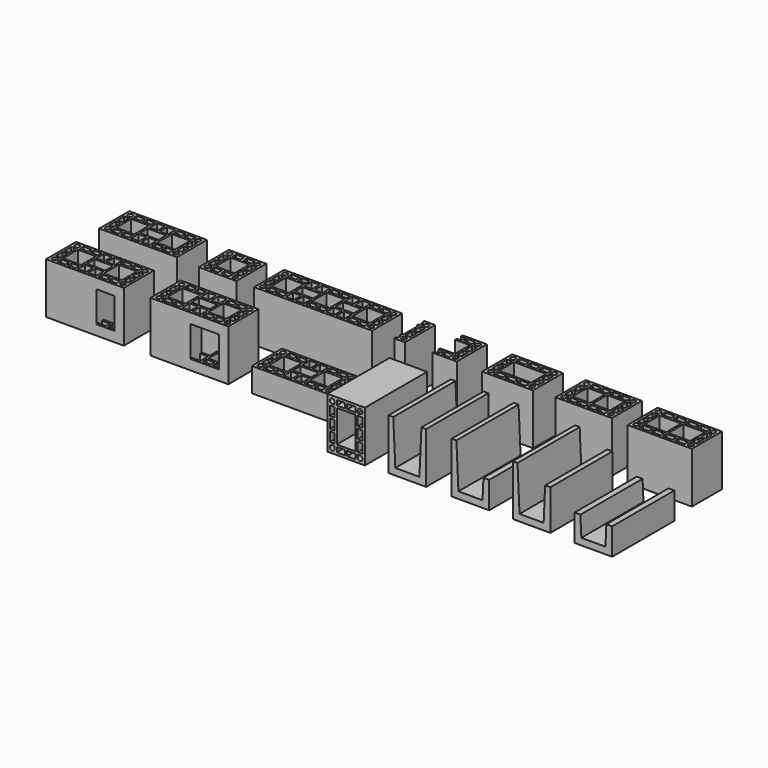
from build123d import *

# Parameters (mm, degrees)
F0_W     = 290
F0_H     = 140
F0_W_2   = 29.75
F0_H_2   = 18
F0_W_3   = 30.5
F0_H_3   = 35
F0_W_4   = 18
F0_H_4   = 31
F0_W_5   = 67.5
F0_H_5   = 70
F0_W_6   = 69
F0_H_6   = 36
F1_DEPTH = 190
F0_W_7   = 140
F0_W_8   = 70
F0_W_9   = 440
F0_W_10  = 29.58192
F0_W_11  = 30.32768
F0_W_12  = 30.32769
F0_W_13  = 17.89831
F0_W_14  = 67.11864
F0_W_15  = 68.61016
F0_W_16  = 68.61017
F0_W_17  = 190
F0_W_18  = 34.66666
F0_H_7   = 30
F0_W_19  = 120
F0_W_20  = 210
F0_W_21  = 66
F0_W_22  = 240
F0_W_23  = 36.5
F0_W_24  = 81
F2_W     = 290
F2_H     = 140
F2_W_2   = 29.75
F2_H_2   = 18
F2_W_3   = 30.5
F2_H_3   = 35
F2_W_4   = 18
F2_H_4   = 31
F2_W_5   = 67.5
F2_H_5   = 70
F2_W_6   = 69
F2_H_6   = 36
F3_DEPTH = 90
F6_W     = 67.5
F6_H     = 115
F6_W_2   = 106
F7_DEPTH = 88
F8_W     = 140
F8_H     = 190
F8_W_2   = 31
F8_H_2   = 18
F8_W_3   = 18
F8_H_3   = 34.66668
F8_W_4   = 70
F8_H_4   = 120
F9_DEPTH = 290


with BuildPart() as f1:
    # F0 (on Top) → F1 (new body)
    with BuildSketch(Plane.XY):
        with Locations((-979.6819496155, 103.0000017881)):
            Rectangle(F0_W, F0_H)
        with BuildLine():
            ThreePointArc((-1097.6819496155, 51.0000017881), (-1113.0459106462, 44.6360407575), (-1106.6819496155, 60.0000017881))
            Line((-1106.6819496155, 60.0000017881), (-1097.6819496155, 60.0000017881))
            Line((-1097.6819496155, 60.0000017881), (-1097.6819496155, 51.0000017881))
        make_face(mode=Mode.SUBTRACT)
        with Locations((-1074.8069496155, 51.0000017881)):
            Rectangle(F0_W_2, F0_H_2, mode=Mode.SUBTRACT)
        with Locations((-1037.0569496155, 51.0000017881)):
            Rectangle(F0_W_2, F0_H_2, mode=Mode.SUBTRACT)
        with Locations((-922.3069496155, 51.0000017881)):
            Rectangle(F0_W_2, F0_H_2, mode=Mode.SUBTRACT)
        with Locations((-884.5569496155, 51.0000017881)):
            Rectangle(F0_W_2, F0_H_2, mode=Mode.SUBTRACT)
        with BuildLine():
            ThreePointArc((-852.6819496155, 60.0000017881), (-846.3179885848, 44.6360407575), (-861.6819496155, 51.0000017881))
            Line((-861.6819496155, 51.0000017881), (-861.6819496155, 60.0000017881))
            Line((-861.6819496155, 60.0000017881), (-852.6819496155, 60.0000017881))
        make_face(mode=Mode.SUBTRACT)
        with Locations((-998.9319496155, 59.5000017881)):
            Rectangle(F0_W_3, F0_H_3, mode=Mode.SUBTRACT)
        with Locations((-960.4319496155, 59.5000017881)):
            Rectangle(F0_W_3, F0_H_3, mode=Mode.SUBTRACT)
        with Locations((-1106.6819496155, 83.5000017881)):
            Rectangle(F0_W_4, F0_H_4, mode=Mode.SUBTRACT)
        with Locations((-852.6819496155, 83.5000017881)):
            Rectangle(F0_W_4, F0_H_4, mode=Mode.SUBTRACT)
        with Locations((-1055.9319496155, 103.0000017881)):
            Rectangle(F0_W_5, F0_H_5, mode=Mode.SUBTRACT)
        with Locations((-979.6819496155, 103.0000017881)):
            Rectangle(F0_W_6, F0_H_6, mode=Mode.SUBTRACT)
        with Locations((-903.4319496155, 103.0000017881)):
            Rectangle(F0_W_5, F0_H_5, mode=Mode.SUBTRACT)
        with Locations((-1106.6819496155, 122.5000017881)):
            Rectangle(F0_W_4, F0_H_4, mode=Mode.SUBTRACT)
        with Locations((-852.6819496155, 122.5000017881)):
            Rectangle(F0_W_4, F0_H_4, mode=Mode.SUBTRACT)
        with Locations((-998.9319496155, 146.5000017881)):
            Rectangle(F0_W_3, F0_H_3, mode=Mode.SUBTRACT)
        with Locations((-960.4319496155, 146.5000017881)):
            Rectangle(F0_W_3, F0_H_3, mode=Mode.SUBTRACT)
        with BuildLine():
            ThreePointArc((-1106.6819496155, 146.0000017881), (-1113.0459106462, 161.3639628188), (-1097.6819496155, 155.0000017881))
            Line((-1097.6819496155, 155.0000017881), (-1097.6819496155, 146.0000017881))
            Line((-1097.6819496155, 146.0000017881), (-1106.6819496155, 146.0000017881))
        make_face(mode=Mode.SUBTRACT)
        with Locations((-1074.8069496155, 155.0000017881)):
            Rectangle(F0_W_2, F0_H_2, mode=Mode.SUBTRACT)
        with Locations((-1037.0569496155, 155.0000017881)):
            Rectangle(F0_W_2, F0_H_2, mode=Mode.SUBTRACT)
        with Locations((-922.3069496155, 155.0000017881)):
            Rectangle(F0_W_2, F0_H_2, mode=Mode.SUBTRACT)
        with Locations((-884.5569496155, 155.0000017881)):
            Rectangle(F0_W_2, F0_H_2, mode=Mode.SUBTRACT)
        with BuildLine():
            ThreePointArc((-861.6819496155, 155.0000017881), (-846.3179885848, 161.3639628188), (-852.6819496155, 146.0000017881))
            Line((-852.6819496155, 146.0000017881), (-861.6819496155, 146.0000017881))
            Line((-861.6819496155, 146.0000017881), (-861.6819496155, 155.0000017881))
        make_face(mode=Mode.SUBTRACT)
    extrude(amount=F1_DEPTH)


with BuildPart() as f1b:
    # F0 (on Top) → F1, piece 2 (new body)
    with BuildSketch(Plane.XY):
        with Locations((-675.6081996155, 93.5069517881)):
            Rectangle(F0_W_7, F0_H)
        with BuildLine():
            ThreePointArc((-718.6081996155, 41.5069517881), (-733.9721606462, 35.1429907575), (-727.6081996155, 50.5069517881))
            Line((-727.6081996155, 50.5069517881), (-718.6081996155, 50.5069517881))
            Line((-718.6081996155, 50.5069517881), (-718.6081996155, 41.5069517881))
        make_face(mode=Mode.SUBTRACT)
        with Locations((-695.7331996155, 41.5069517881)):
            Rectangle(F0_W_2, F0_H_2, mode=Mode.SUBTRACT)
        with Locations((-655.4831996155, 41.5069517881)):
            Rectangle(F0_W_2, F0_H_2, mode=Mode.SUBTRACT)
        with BuildLine():
            ThreePointArc((-623.6081996155, 50.5069517881), (-617.2442385848, 35.1429907575), (-632.6081996155, 41.5069517881))
            Line((-632.6081996155, 41.5069517881), (-632.6081996155, 50.5069517881))
            Line((-632.6081996155, 50.5069517881), (-623.6081996155, 50.5069517881))
        make_face(mode=Mode.SUBTRACT)
        with Locations((-727.6081996155, 74.0069517881)):
            Rectangle(F0_W_4, F0_H_4, mode=Mode.SUBTRACT)
        with Locations((-623.6081996155, 74.0069517881)):
            Rectangle(F0_W_4, F0_H_4, mode=Mode.SUBTRACT)
        with Locations((-675.6081996155, 93.5069517881)):
            Rectangle(F0_W_8, F0_H_5, mode=Mode.SUBTRACT)
        with Locations((-727.6081996155, 113.0069517881)):
            Rectangle(F0_W_4, F0_H_4, mode=Mode.SUBTRACT)
        with Locations((-623.6081996155, 113.0069517881)):
            Rectangle(F0_W_4, F0_H_4, mode=Mode.SUBTRACT)
        with BuildLine():
            ThreePointArc((-727.6081996155, 136.5069517881), (-733.9721606462, 151.8709128188), (-718.6081996155, 145.5069517881))
            Line((-718.6081996155, 145.5069517881), (-718.6081996155, 136.5069517881))
            Line((-718.6081996155, 136.5069517881), (-727.6081996155, 136.5069517881))
        make_face(mode=Mode.SUBTRACT)
        with Locations((-695.7331996155, 145.5069517881)):
            Rectangle(F0_W_2, F0_H_2, mode=Mode.SUBTRACT)
        with Locations((-655.4831996155, 145.5069517881)):
            Rectangle(F0_W_2, F0_H_2, mode=Mode.SUBTRACT)
        with BuildLine():
            ThreePointArc((-632.6081996155, 145.5069517881), (-617.2442385848, 151.8709128188), (-623.6081996155, 136.5069517881))
            Line((-623.6081996155, 136.5069517881), (-632.6081996155, 136.5069517881))
            Line((-632.6081996155, 136.5069517881), (-632.6081996155, 145.5069517881))
        make_face(mode=Mode.SUBTRACT)
    extrude(amount=F1_DEPTH)


with BuildPart() as f1c:
    # F0 (on Top) → F1, piece 3 (new body)
    with BuildSketch(Plane.XY):
        with Locations((-320.9469596155, 95.9889717881)):
            Rectangle(F0_W_9, F0_H)
        with BuildLine():
            ThreePointArc((-514.0486546155, 43.9889717881), (-529.4126156462, 37.6250107575), (-523.0486546155, 52.9889717881))
            Line((-523.0486546155, 52.9889717881), (-514.0486546155, 52.9889717881))
            Line((-514.0486546155, 52.9889717881), (-514.0486546155, 43.9889717881))
        make_face(mode=Mode.SUBTRACT)
        with Locations((-491.3537396155, 43.9889717881)):
            Rectangle(F0_W_10, F0_H_2, mode=Mode.SUBTRACT)
        with Locations((-453.8170196155, 43.9889717881)):
            Rectangle(F0_W_10, F0_H_2, mode=Mode.SUBTRACT)
        with Locations((-339.7153196155, 43.9889717881)):
            Rectangle(F0_W_10, F0_H_2, mode=Mode.SUBTRACT)
        with Locations((-302.1785996155, 43.9889717881)):
            Rectangle(F0_W_10, F0_H_2, mode=Mode.SUBTRACT)
        with Locations((-415.9074096155, 52.4889717881)):
            Rectangle(F0_W_11, F0_H_3, mode=Mode.SUBTRACT)
        with Locations((-377.6249296155, 52.4889717881)):
            Rectangle(F0_W_11, F0_H_3, mode=Mode.SUBTRACT)
        with Locations((-188.0768996155, 43.9889717881)):
            Rectangle(F0_W_10, F0_H_2, mode=Mode.SUBTRACT)
        with Locations((-150.5401796155, 43.9889717881)):
            Rectangle(F0_W_10, F0_H_2, mode=Mode.SUBTRACT)
        with BuildLine():
            ThreePointArc((-118.8452646155, 52.9889717881), (-112.4813035848, 37.6250107575), (-127.8452646155, 43.9889717881))
            Line((-127.8452646155, 43.9889717881), (-127.8452646155, 52.9889717881))
            Line((-127.8452646155, 52.9889717881), (-118.8452646155, 52.9889717881))
        make_face(mode=Mode.SUBTRACT)
        with Locations((-264.2689946155, 52.4889717881)):
            Rectangle(F0_W_12, F0_H_3, mode=Mode.SUBTRACT)
        with Locations((-225.9865096155, 52.4889717881)):
            Rectangle(F0_W_11, F0_H_3, mode=Mode.SUBTRACT)
        with Locations((-523.0486546155, 76.4889717881)):
            Rectangle(F0_W_13, F0_H_4, mode=Mode.SUBTRACT)
        with Locations((-118.8452646155, 76.4889717881)):
            Rectangle(F0_W_13, F0_H_4, mode=Mode.SUBTRACT)
        with Locations((-472.5853796155, 95.9889717881)):
            Rectangle(F0_W_14, F0_H_5, mode=Mode.SUBTRACT)
        with Locations((-396.7661696155, 95.9889717881)):
            Rectangle(F0_W_15, F0_H_6, mode=Mode.SUBTRACT)
        with Locations((-320.9469596155, 95.9889717881)):
            Rectangle(F0_W_14, F0_H_5, mode=Mode.SUBTRACT)
        with Locations((-245.1277546155, 95.9889717881)):
            Rectangle(F0_W_16, F0_H_6, mode=Mode.SUBTRACT)
        with Locations((-169.3085396155, 95.9889717881)):
            Rectangle(F0_W_14, F0_H_5, mode=Mode.SUBTRACT)
        with Locations((-523.0486546155, 115.4889717881)):
            Rectangle(F0_W_13, F0_H_4, mode=Mode.SUBTRACT)
        with Locations((-118.8452646155, 115.4889717881)):
            Rectangle(F0_W_13, F0_H_4, mode=Mode.SUBTRACT)
        with Locations((-415.9074096155, 139.4889717881)):
            Rectangle(F0_W_11, F0_H_3, mode=Mode.SUBTRACT)
        with Locations((-377.6249296155, 139.4889717881)):
            Rectangle(F0_W_11, F0_H_3, mode=Mode.SUBTRACT)
        with BuildLine():
            ThreePointArc((-523.0486546155, 138.9889717881), (-529.4126156462, 154.3529328188), (-514.0486546155, 147.9889717881))
            Line((-514.0486546155, 147.9889717881), (-514.0486546155, 138.9889717881))
            Line((-514.0486546155, 138.9889717881), (-523.0486546155, 138.9889717881))
        make_face(mode=Mode.SUBTRACT)
        with Locations((-491.3537396155, 147.9889717881)):
            Rectangle(F0_W_10, F0_H_2, mode=Mode.SUBTRACT)
        with Locations((-453.8170196155, 147.9889717881)):
            Rectangle(F0_W_10, F0_H_2, mode=Mode.SUBTRACT)
        with Locations((-339.7153196155, 147.9889717881)):
            Rectangle(F0_W_10, F0_H_2, mode=Mode.SUBTRACT)
        with Locations((-302.1785996155, 147.9889717881)):
            Rectangle(F0_W_10, F0_H_2, mode=Mode.SUBTRACT)
        with Locations((-264.2689946155, 139.4889717881)):
            Rectangle(F0_W_12, F0_H_3, mode=Mode.SUBTRACT)
        with Locations((-225.9865096155, 139.4889717881)):
            Rectangle(F0_W_11, F0_H_3, mode=Mode.SUBTRACT)
        with Locations((-188.0768996155, 147.9889717881)):
            Rectangle(F0_W_10, F0_H_2, mode=Mode.SUBTRACT)
        with Locations((-150.5401796155, 147.9889717881)):
            Rectangle(F0_W_10, F0_H_2, mode=Mode.SUBTRACT)
        with BuildLine():
            ThreePointArc((-127.8452646155, 147.9889717881), (-112.4813035848, 154.3529328188), (-118.8452646155, 138.9889717881))
            Line((-118.8452646155, 138.9889717881), (-127.8452646155, 138.9889717881))
            Line((-127.8452646155, 138.9889717881), (-127.8452646155, 147.9889717881))
        make_face(mode=Mode.SUBTRACT)
    extrude(amount=F1_DEPTH)


with BuildPart() as f1d:
    # F0 (on Top) → F1, piece 4 (new body)
    with BuildSketch(Plane.XY):
        Polygon((20.1051403845, 168.7234817881), (-19.8948596155, 168.7234817881), (-19.8948596155, 159.7234817881), (-14.8948596155, 159.7234817881), (-14.8948596155, 141.7234817881), (-19.8948596155, 141.7234817881), (-19.8948596155, 133.7234817881), (-14.8948596155, 133.7234817881), (-14.8948596155, 63.7234817881), (-19.8948596155, 63.7234817881), (-19.8948596155, 55.7234817881), (-14.8948596155, 55.7234817881), (-14.8948596155, 37.7234817881), (-19.8948596155, 37.7234817881), (-19.8948596155, 28.7234817881), (20.1051403845, 28.7234817881), align=None)
        with BuildLine():
            ThreePointArc((2.1051403845, 55.7234817881), (8.4691014152, 40.3595207575), (-6.8948596155, 46.7234817881))
            Line((-6.8948596155, 46.7234817881), (-6.8948596155, 55.7234817881))
            Line((-6.8948596155, 55.7234817881), (2.1051403845, 55.7234817881))
        make_face(mode=Mode.SUBTRACT)
        with Locations((2.1051403845, 79.2234817881)):
            Rectangle(F0_W_4, F0_H_4, mode=Mode.SUBTRACT)
        with Locations((2.1051403845, 118.2234817881)):
            Rectangle(F0_W_4, F0_H_4, mode=Mode.SUBTRACT)
        with BuildLine():
            ThreePointArc((-6.8948596155, 150.7234817881), (8.4691014152, 157.0874428188), (2.1051403845, 141.7234817881))
            Line((2.1051403845, 141.7234817881), (-6.8948596155, 141.7234817881))
            Line((-6.8948596155, 141.7234817881), (-6.8948596155, 150.7234817881))
        make_face(mode=Mode.SUBTRACT)
    extrude(amount=F1_DEPTH)


with BuildPart() as f1e:
    # F0 (on Top) → F1, piece 5 (new body)
    with BuildSketch(Plane.XY):
        Polygon((213.7472603845, 167.9983717881), (123.7472603845, 167.9983717881), (123.7472603845, 158.9983717881), (140.9972603845, 158.9983717881), (140.9972603845, 140.9983717881), (123.7472603845, 140.9983717881), (123.7472603845, 132.9983717881), (178.7472603845, 132.9983717881), (178.7472603845, 62.9983717881), (123.7472603845, 62.9983717881), (123.7472603845, 54.9983717881), (140.9972603845, 54.9983717881), (140.9972603845, 36.9983717881), (123.7472603845, 36.9983717881), (123.7472603845, 27.9983717881), (213.7472603845, 27.9983717881), align=None)
        with Locations((163.8722603845, 45.9983717881)):
            Rectangle(F0_W_2, F0_H_2, mode=Mode.SUBTRACT)
        with BuildLine():
            ThreePointArc((195.7472603845, 54.9983717881), (202.1112214152, 39.6344107575), (186.7472603845, 45.9983717881))
            Line((186.7472603845, 45.9983717881), (186.7472603845, 54.9983717881))
            Line((186.7472603845, 54.9983717881), (195.7472603845, 54.9983717881))
        make_face(mode=Mode.SUBTRACT)
        with Locations((195.7472603845, 78.4983717881)):
            Rectangle(F0_W_4, F0_H_4, mode=Mode.SUBTRACT)
        with Locations((195.7472603845, 117.4983717881)):
            Rectangle(F0_W_4, F0_H_4, mode=Mode.SUBTRACT)
        with Locations((163.8722603845, 149.9983717881)):
            Rectangle(F0_W_2, F0_H_2, mode=Mode.SUBTRACT)
        with BuildLine():
            ThreePointArc((186.7472603845, 149.9983717881), (202.1112214152, 156.3623328188), (195.7472603845, 140.9983717881))
            Line((195.7472603845, 140.9983717881), (186.7472603845, 140.9983717881))
            Line((186.7472603845, 140.9983717881), (186.7472603845, 149.9983717881))
        make_face(mode=Mode.SUBTRACT)
    extrude(amount=F1_DEPTH)


with BuildPart() as f1f:
    # F0 (on Top) → F1, piece 6 (new body)
    with BuildSketch(Plane.XY):
        with Locations((405.7960303845, 94.8165417881)):
            Rectangle(F0_W_17, F0_H)
        with BuildLine():
            ThreePointArc((337.7960303845, 42.8165417881), (322.4320693538, 36.4525807575), (328.7960303845, 51.8165417881))
            Line((328.7960303845, 51.8165417881), (337.7960303845, 51.8165417881))
            Line((337.7960303845, 51.8165417881), (337.7960303845, 42.8165417881))
        make_face(mode=Mode.SUBTRACT)
        with Locations((363.1293603845, 42.8165417881)):
            Rectangle(F0_W_18, F0_H_2, mode=Mode.SUBTRACT)
        with Locations((405.7960403845, 42.8165417881)):
            Rectangle(F0_W_18, F0_H_2, mode=Mode.SUBTRACT)
        with Locations((448.4627003845, 42.8165417881)):
            Rectangle(F0_W_18, F0_H_2, mode=Mode.SUBTRACT)
        with BuildLine():
            ThreePointArc((482.7960303845, 51.8165417881), (489.1599914152, 36.4525807575), (473.7960303845, 42.8165417881))
            Line((473.7960303845, 42.8165417881), (473.7960303845, 51.8165417881))
            Line((473.7960303845, 51.8165417881), (482.7960303845, 51.8165417881))
        make_face(mode=Mode.SUBTRACT)
        with Locations((328.7960303845, 74.8165417881)):
            Rectangle(F0_W_4, F0_H_7, mode=Mode.SUBTRACT)
        with Locations((482.7960303845, 74.8165417881)):
            Rectangle(F0_W_4, F0_H_7, mode=Mode.SUBTRACT)
        with Locations((405.7960303845, 94.8165417881)):
            Rectangle(F0_W_19, F0_H_5, mode=Mode.SUBTRACT)
        with Locations((328.7960303845, 114.8165417881)):
            Rectangle(F0_W_4, F0_H_7, mode=Mode.SUBTRACT)
        with Locations((482.7960303845, 114.8165417881)):
            Rectangle(F0_W_4, F0_H_7, mode=Mode.SUBTRACT)
        with BuildLine():
            ThreePointArc((328.7960303845, 137.8165417881), (322.4320693538, 153.1805028188), (337.7960303845, 146.8165417881))
            Line((337.7960303845, 146.8165417881), (337.7960303845, 137.8165417881))
            Line((337.7960303845, 137.8165417881), (328.7960303845, 137.8165417881))
        make_face(mode=Mode.SUBTRACT)
        with Locations((363.1293603845, 146.8165417881)):
            Rectangle(F0_W_18, F0_H_2, mode=Mode.SUBTRACT)
        with Locations((405.7960403845, 146.8165417881)):
            Rectangle(F0_W_18, F0_H_2, mode=Mode.SUBTRACT)
        with Locations((448.4627003845, 146.8165417881)):
            Rectangle(F0_W_18, F0_H_2, mode=Mode.SUBTRACT)
        with BuildLine():
            ThreePointArc((473.7960303845, 146.8165417881), (489.1599914152, 153.1805028188), (482.7960303845, 137.8165417881))
            Line((482.7960303845, 137.8165417881), (473.7960303845, 137.8165417881))
            Line((473.7960303845, 137.8165417881), (473.7960303845, 146.8165417881))
        make_face(mode=Mode.SUBTRACT)
    extrude(amount=F1_DEPTH)


with BuildPart() as f1g:
    # F0 (on Top) → F1, piece 7 (new body)
    with BuildSketch(Plane.XY):
        with Locations((684.3863803845, 101.6721517881)):
            Rectangle(F0_W_20, F0_H)
        with BuildLine():
            ThreePointArc((606.3863803845, 49.6721517881), (591.0224193538, 43.3081907575), (597.3863803845, 58.6721517881))
            Line((597.3863803845, 58.6721517881), (606.3863803845, 58.6721517881))
            Line((606.3863803845, 58.6721517881), (606.3863803845, 49.6721517881))
        make_face(mode=Mode.SUBTRACT)
        with Locations((629.2613803845, 49.6721517881)):
            Rectangle(F0_W_2, F0_H_2, mode=Mode.SUBTRACT)
        with Locations((665.5113803845, 49.6721517881)):
            Rectangle(F0_W_2, F0_H_2, mode=Mode.SUBTRACT)
        with Locations((703.2613803845, 49.6721517881)):
            Rectangle(F0_W_2, F0_H_2, mode=Mode.SUBTRACT)
        with Locations((739.5113803845, 49.6721517881)):
            Rectangle(F0_W_2, F0_H_2, mode=Mode.SUBTRACT)
        with BuildLine():
            ThreePointArc((771.3863803845, 58.6721517881), (777.7503414152, 43.3081907575), (762.3863803845, 49.6721517881))
            Line((762.3863803845, 49.6721517881), (762.3863803845, 58.6721517881))
            Line((762.3863803845, 58.6721517881), (771.3863803845, 58.6721517881))
        make_face(mode=Mode.SUBTRACT)
        with Locations((597.3863803845, 82.1721517881)):
            Rectangle(F0_W_4, F0_H_4, mode=Mode.SUBTRACT)
        with Locations((771.3863803845, 82.1721517881)):
            Rectangle(F0_W_4, F0_H_4, mode=Mode.SUBTRACT)
        with Locations((647.3863803845, 101.6721517881)):
            Rectangle(F0_W_21, F0_H_5, mode=Mode.SUBTRACT)
        with Locations((721.3863803845, 101.6721517881)):
            Rectangle(F0_W_21, F0_H_5, mode=Mode.SUBTRACT)
        with Locations((597.3863803845, 121.1721517881)):
            Rectangle(F0_W_4, F0_H_4, mode=Mode.SUBTRACT)
        with Locations((771.3863803845, 121.1721517881)):
            Rectangle(F0_W_4, F0_H_4, mode=Mode.SUBTRACT)
        with BuildLine():
            ThreePointArc((597.3863803845, 144.6721517881), (591.0224193538, 160.0361128188), (606.3863803845, 153.6721517881))
            Line((606.3863803845, 153.6721517881), (606.3863803845, 144.6721517881))
            Line((606.3863803845, 144.6721517881), (597.3863803845, 144.6721517881))
        make_face(mode=Mode.SUBTRACT)
        with Locations((629.2613803845, 153.6721517881)):
            Rectangle(F0_W_2, F0_H_2, mode=Mode.SUBTRACT)
        with Locations((665.5113803845, 153.6721517881)):
            Rectangle(F0_W_2, F0_H_2, mode=Mode.SUBTRACT)
        with Locations((703.2613803845, 153.6721517881)):
            Rectangle(F0_W_2, F0_H_2, mode=Mode.SUBTRACT)
        with Locations((739.5113803845, 153.6721517881)):
            Rectangle(F0_W_2, F0_H_2, mode=Mode.SUBTRACT)
        with BuildLine():
            ThreePointArc((762.3863803845, 153.6721517881), (777.7503414152, 160.0361128188), (771.3863803845, 144.6721517881))
            Line((771.3863803845, 144.6721517881), (762.3863803845, 144.6721517881))
            Line((762.3863803845, 144.6721517881), (762.3863803845, 153.6721517881))
        make_face(mode=Mode.SUBTRACT)
    extrude(amount=F1_DEPTH)


with BuildPart() as f1h:
    # F0 (on Top) → F1, piece 8 (new body)
    with BuildSketch(Plane.XY):
        with Locations((972.5131403845, 96.3817917881)):
            Rectangle(F0_W_22, F0_H)
        with BuildLine():
            ThreePointArc((879.5131403845, 44.3817917881), (864.1491793538, 38.0178307575), (870.5131403845, 53.3817917881))
            Line((870.5131403845, 53.3817917881), (879.5131403845, 53.3817917881))
            Line((879.5131403845, 53.3817917881), (879.5131403845, 44.3817917881))
        make_face(mode=Mode.SUBTRACT)
        with Locations((905.7631403845, 44.3817917881)):
            Rectangle(F0_W_23, F0_H_2, mode=Mode.SUBTRACT)
        with Locations((950.2631403845, 44.3817917881)):
            Rectangle(F0_W_23, F0_H_2, mode=Mode.SUBTRACT)
        with Locations((994.7631403845, 44.3817917881)):
            Rectangle(F0_W_23, F0_H_2, mode=Mode.SUBTRACT)
        with Locations((1039.2631403845, 44.3817917881)):
            Rectangle(F0_W_23, F0_H_2, mode=Mode.SUBTRACT)
        with BuildLine():
            ThreePointArc((1074.5131403845, 53.3817917881), (1080.8771014152, 38.0178307575), (1065.5131403845, 44.3817917881))
            Line((1065.5131403845, 44.3817917881), (1065.5131403845, 53.3817917881))
            Line((1065.5131403845, 53.3817917881), (1074.5131403845, 53.3817917881))
        make_face(mode=Mode.SUBTRACT)
        with Locations((870.5131403845, 76.8817917881)):
            Rectangle(F0_W_4, F0_H_4, mode=Mode.SUBTRACT)
        with Locations((1074.5131403845, 76.8817917881)):
            Rectangle(F0_W_4, F0_H_4, mode=Mode.SUBTRACT)
        with Locations((928.0131403845, 96.3817917881)):
            Rectangle(F0_W_24, F0_H_5, mode=Mode.SUBTRACT)
        with Locations((1017.0131403845, 96.3817917881)):
            Rectangle(F0_W_24, F0_H_5, mode=Mode.SUBTRACT)
        with Locations((870.5131403845, 115.8817917881)):
            Rectangle(F0_W_4, F0_H_4, mode=Mode.SUBTRACT)
        with Locations((1074.5131403845, 115.8817917881)):
            Rectangle(F0_W_4, F0_H_4, mode=Mode.SUBTRACT)
        with BuildLine():
            ThreePointArc((870.5131403845, 139.3817917881), (864.1491793538, 154.7457528188), (879.5131403845, 148.3817917881))
            Line((879.5131403845, 148.3817917881), (879.5131403845, 139.3817917881))
            Line((879.5131403845, 139.3817917881), (870.5131403845, 139.3817917881))
        make_face(mode=Mode.SUBTRACT)
        with Locations((905.7631403845, 148.3817917881)):
            Rectangle(F0_W_23, F0_H_2, mode=Mode.SUBTRACT)
        with Locations((950.2631403845, 148.3817917881)):
            Rectangle(F0_W_23, F0_H_2, mode=Mode.SUBTRACT)
        with Locations((994.7631403845, 148.3817917881)):
            Rectangle(F0_W_23, F0_H_2, mode=Mode.SUBTRACT)
        with Locations((1039.2631403845, 148.3817917881)):
            Rectangle(F0_W_23, F0_H_2, mode=Mode.SUBTRACT)
        with BuildLine():
            ThreePointArc((1065.5131403845, 148.3817917881), (1080.8771014152, 154.7457528188), (1074.5131403845, 139.3817917881))
            Line((1074.5131403845, 139.3817917881), (1065.5131403845, 139.3817917881))
            Line((1065.5131403845, 139.3817917881), (1065.5131403845, 148.3817917881))
        make_face(mode=Mode.SUBTRACT)
    extrude(amount=F1_DEPTH)


with BuildPart() as f3:
    # F2 (on Top) → F3 (new body)
    with BuildSketch(Plane.XY):
        with Locations((-210.1819324493, -146.242882967)):
            Rectangle(F2_W, F2_H)
        with BuildLine():
            ThreePointArc((-328.1819324493, -198.242882967), (-343.54589348, -204.6068439977), (-337.1819324493, -189.242882967))
            Line((-337.1819324493, -189.242882967), (-328.1819324493, -189.242882967))
            Line((-328.1819324493, -189.242882967), (-328.1819324493, -198.242882967))
        make_face(mode=Mode.SUBTRACT)
        with Locations((-305.3069324493, -198.242882967)):
            Rectangle(F2_W_2, F2_H_2, mode=Mode.SUBTRACT)
        with Locations((-267.5569324493, -198.242882967)):
            Rectangle(F2_W_2, F2_H_2, mode=Mode.SUBTRACT)
        with Locations((-229.4319324493, -189.742882967)):
            Rectangle(F2_W_3, F2_H_3, mode=Mode.SUBTRACT)
        with Locations((-337.1819324493, -165.742882967)):
            Rectangle(F2_W_4, F2_H_4, mode=Mode.SUBTRACT)
        with Locations((-286.4319324493, -146.242882967)):
            Rectangle(F2_W_5, F2_H_5, mode=Mode.SUBTRACT)
        with Locations((-190.9319324493, -189.742882967)):
            Rectangle(F2_W_3, F2_H_3, mode=Mode.SUBTRACT)
        with Locations((-152.8069324493, -198.242882967)):
            Rectangle(F2_W_2, F2_H_2, mode=Mode.SUBTRACT)
        with Locations((-115.0569324493, -198.242882967)):
            Rectangle(F2_W_2, F2_H_2, mode=Mode.SUBTRACT)
        with BuildLine():
            ThreePointArc((-83.1819324493, -189.242882967), (-76.8179714187, -204.6068439977), (-92.1819324493, -198.242882967))
            Line((-92.1819324493, -198.242882967), (-92.1819324493, -189.242882967))
            Line((-92.1819324493, -189.242882967), (-83.1819324493, -189.242882967))
        make_face(mode=Mode.SUBTRACT)
        with Locations((-210.1819324493, -146.242882967)):
            Rectangle(F2_W_6, F2_H_6, mode=Mode.SUBTRACT)
        with Locations((-83.1819324493, -165.742882967)):
            Rectangle(F2_W_4, F2_H_4, mode=Mode.SUBTRACT)
        with Locations((-133.9319324493, -146.242882967)):
            Rectangle(F2_W_5, F2_H_5, mode=Mode.SUBTRACT)
        with Locations((-337.1819324493, -126.742882967)):
            Rectangle(F2_W_4, F2_H_4, mode=Mode.SUBTRACT)
        with BuildLine():
            ThreePointArc((-337.1819324493, -103.242882967), (-343.54589348, -87.8789219363), (-328.1819324493, -94.242882967))
            Line((-328.1819324493, -94.242882967), (-328.1819324493, -103.242882967))
            Line((-328.1819324493, -103.242882967), (-337.1819324493, -103.242882967))
        make_face(mode=Mode.SUBTRACT)
        with Locations((-305.3069324493, -94.242882967)):
            Rectangle(F2_W_2, F2_H_2, mode=Mode.SUBTRACT)
        with Locations((-267.5569324493, -94.242882967)):
            Rectangle(F2_W_2, F2_H_2, mode=Mode.SUBTRACT)
        with Locations((-229.4319324493, -102.742882967)):
            Rectangle(F2_W_3, F2_H_3, mode=Mode.SUBTRACT)
        with Locations((-83.1819324493, -126.742882967)):
            Rectangle(F2_W_4, F2_H_4, mode=Mode.SUBTRACT)
        with Locations((-190.9319324493, -102.742882967)):
            Rectangle(F2_W_3, F2_H_3, mode=Mode.SUBTRACT)
        with Locations((-152.8069324493, -94.242882967)):
            Rectangle(F2_W_2, F2_H_2, mode=Mode.SUBTRACT)
        with Locations((-115.0569324493, -94.242882967)):
            Rectangle(F2_W_2, F2_H_2, mode=Mode.SUBTRACT)
        with BuildLine():
            ThreePointArc((-92.1819324493, -94.242882967), (-76.8179714187, -87.8789219363), (-83.1819324493, -103.242882967))
            Line((-83.1819324493, -103.242882967), (-92.1819324493, -103.242882967))
            Line((-92.1819324493, -103.242882967), (-92.1819324493, -94.242882967))
        make_face(mode=Mode.SUBTRACT)
    extrude(amount=F3_DEPTH)


with BuildPart() as f4_1:
    # F4: copy of F1
    add(f1.part.moved(Location((0, -248, 0))))


with BuildPart() as f5_1:
    # F5: copy of F4_1
    add(f4_1.part.moved(Location((390, 0, 0))))


with BuildPart() as f7_tool:
    # F6 (on face) → F7 (new body)
    with BuildSketch(Plane.XZ.offset(214.9999982119)):
        with Locations((-903.4319496155, 95)):
            Rectangle(F6_W, F6_H)
        with Locations((-532.6819496155, 95)):
            Rectangle(F6_W_2, F6_H)
        with Locations((-903.4319496155, 95)):
            Rectangle(F6_W, F6_H)
    extrude(amount=-F7_DEPTH)


with BuildPart() as f4_1_1:
    add(f4_1.part)

    # F7: cut by f7_tool
    add(f7_tool.part, mode=Mode.SUBTRACT)


with BuildPart() as f5_1_1:
    add(f5_1.part)

    # F7: cut by f7_tool
    add(f7_tool.part, mode=Mode.SUBTRACT)


with BuildPart() as f9:
    # F8 (on face) → F9 (new body)
    with BuildSketch(Plane(origin=(0, -76.242882967, 0), x_dir=(-1, 0, 0), z_dir=(0, 1, 0))):
        with Locations((-116.3048970699, 95)):
            Rectangle(F8_W, F8_H)
        with BuildLine():
            ThreePointArc((-159.3048970699, 18), (-174.6688581006, 11.6360389693), (-168.3048970699, 27))
            Line((-168.3048970699, 27), (-159.3048970699, 27))
            Line((-159.3048970699, 27), (-159.3048970699, 18))
        make_face(mode=Mode.SUBTRACT)
        with Locations((-135.8048970699, 18)):
            Rectangle(F8_W_2, F8_H_2, mode=Mode.SUBTRACT)
        with Locations((-96.8048970699, 18)):
            Rectangle(F8_W_2, F8_H_2, mode=Mode.SUBTRACT)
        with BuildLine():
            ThreePointArc((-64.3048970699, 27), (-57.9409360393, 11.6360389693), (-73.3048970699, 18))
            Line((-73.3048970699, 18), (-73.3048970699, 27))
            Line((-73.3048970699, 27), (-64.3048970699, 27))
        make_face(mode=Mode.SUBTRACT)
        with Locations((-168.3048970699, 52.33332)):
            Rectangle(F8_W_3, F8_H_3, mode=Mode.SUBTRACT)
        with Locations((-64.3048970699, 52.33332)):
            Rectangle(F8_W_3, F8_H_3, mode=Mode.SUBTRACT)
        with Locations((-168.3048970699, 94.99998)):
            Rectangle(F8_W_3, F8_H_3, mode=Mode.SUBTRACT)
        with Locations((-116.3048970699, 95)):
            Rectangle(F8_W_4, F8_H_4, mode=Mode.SUBTRACT)
        with Locations((-64.3048970699, 94.99998)):
            Rectangle(F8_W_3, F8_H_3, mode=Mode.SUBTRACT)
        with Locations((-168.3048970699, 137.66666)):
            Rectangle(F8_W_3, F8_H_3, mode=Mode.SUBTRACT)
        with Locations((-64.3048970699, 137.66666)):
            Rectangle(F8_W_3, F8_H_3, mode=Mode.SUBTRACT)
        with BuildLine():
            ThreePointArc((-168.3048970699, 163), (-174.6688581006, 178.3639610307), (-159.3048970699, 172))
            Line((-159.3048970699, 172), (-159.3048970699, 163))
            Line((-159.3048970699, 163), (-168.3048970699, 163))
        make_face(mode=Mode.SUBTRACT)
        with Locations((-135.8048970699, 172)):
            Rectangle(F8_W_2, F8_H_2, mode=Mode.SUBTRACT)
        with Locations((-96.8048970699, 172)):
            Rectangle(F8_W_2, F8_H_2, mode=Mode.SUBTRACT)
        with BuildLine():
            ThreePointArc((-73.3048970699, 172), (-57.9409360393, 178.3639610307), (-64.3048970699, 163))
            Line((-64.3048970699, 163), (-73.3048970699, 163))
            Line((-73.3048970699, 163), (-73.3048970699, 172))
        make_face(mode=Mode.SUBTRACT)
    extrude(amount=-F9_DEPTH)


with BuildPart() as f9b:
    # F8 (on face) → F9, piece 2 (new body)
    with BuildSketch(Plane(origin=(0, -76.242882967, 0), x_dir=(-1, 0, 0), z_dir=(0, 1, 0))):
        Polygon((-1087.2675561484, 100), (-1108.8584661484, 100), (-1108.8584661484, 0), (-968.8584661484, 0), (-968.8584661484, 100), (-990.4493761484, 100), (-993.8584661484, 25), (-1083.8584661484, 25), align=None)
    extrude(amount=-F9_DEPTH)


with BuildPart() as f9c:
    # F8 (on face) → F9, piece 3 (new body)
    with BuildSketch(Plane(origin=(0, -76.242882967, 0), x_dir=(-1, 0, 0), z_dir=(0, 1, 0))):
        Polygon((-510.2117908911, 3.52098), (-510.2117908911, 193.52098), (-527.7117908911, 193.52098), (-535.2117908911, 28.52098), (-625.2117908911, 28.52098), (-628.6208808911, 103.52098), (-650.2117908911, 103.52098), (-650.2117908911, 3.52098), align=None)
    extrude(amount=-F9_DEPTH)


with BuildPart() as f9d:
    # F8 (on face) → F9, piece 4 (new body)
    with BuildSketch(Plane(origin=(0, -76.242882967, 0), x_dir=(-1, 0, 0), z_dir=(0, 1, 0))):
        Polygon((-397.1139208911, 193.84092), (-414.6139208911, 193.84092), (-414.6139208911, 3.84092), (-274.6139208911, 3.84092), (-274.6139208911, 193.84092), (-292.1139208911, 193.84092), (-299.6139208911, 28.84092), (-389.6139208911, 28.84092), align=None)
    extrude(amount=-F9_DEPTH)


with BuildPart() as f9e:
    # F8 (on face) → F9, piece 5 (new body)
    with BuildSketch(Plane(origin=(0, -76.242882967, 0), x_dir=(-1, 0, 0), z_dir=(0, 1, 0))):
        Polygon((-853.2117962837, 28.52098), (-858.8936144655, 153.52098), (-878.2117962837, 153.52098), (-878.2117962837, 3.52098), (-738.2117962837, 3.52098), (-738.2117962837, 193.52098), (-755.7117962837, 193.52098), (-763.2117962837, 28.52098), align=None)
    extrude(amount=-F9_DEPTH)


solid = Compound([f1.part, f1b.part, f1c.part, f1d.part, f1e.part, f1f.part, f1g.part, f1h.part, f3.part, f4_1_1.part, f5_1_1.part, f9.part, f9b.part, f9c.part, f9d.part, f9e.part])
